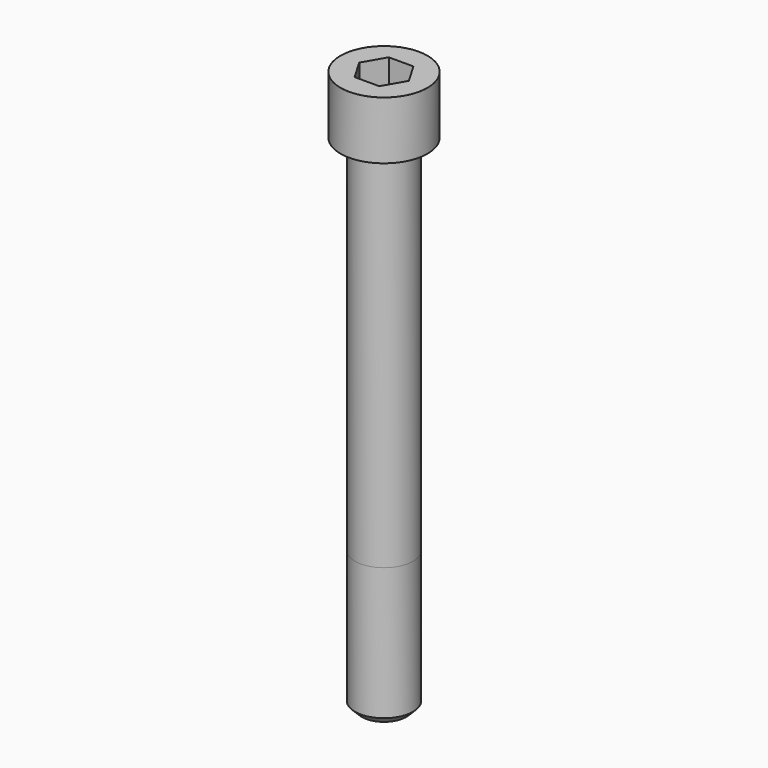
from build123d import *

# Parameters (mm, degrees)
POCKET_DEPTH = 22.15


with BuildPart() as part:
    # Sketch → Revolve (revolve)
    with BuildSketch(Plane.YZ):
        with BuildLine():
            Line((14.999, 0), (22.5, 0))
            Line((22.5, 0), (22.5, 29.97229))
            ThreePointArc((22.5, 29.97229), (22.491884, 29.991884), (22.47229, 30))
            Line((22.47229, 30), (0, 30))
            Line((0, -260), (0, 30))
            Line((11.5, -260), (0, -260))
            Line((15, -256.5), (11.5, -260))
            Line((15, -188), (15, -256.5))
            Line((14.999, 0), (15, -188))
        make_face()
    revolve(axis=Axis((0, 0, 0), (0, 0, 1)))

    # Sketch001 → Pocket (cut)
    with BuildSketch(Plane.XY.offset(30)):
        Polygon((12.788308, 0), (6.394154, 11.075), (-6.394154, 11.075), (-12.788308, 0), (-6.394154, -11.075), (6.394154, -11.075), align=None)
    extrude(amount=-POCKET_DEPTH, mode=Mode.SUBTRACT)


solid = part.part
